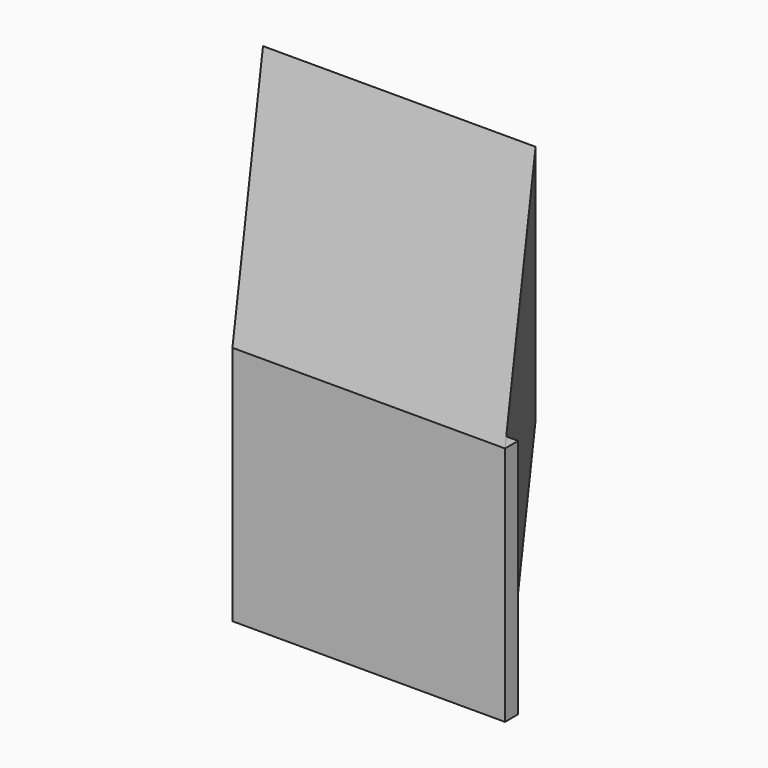
from build123d import *

# Parameters (mm, degrees)
F0_W      = 50.467223
F0_H      = 44.565819
F1_DEPTH  = 3.048
F1_FACE_W = 50.467222
F1_FACE_H = 44.56582


with BuildPart() as f1:
    # F0 (on Front) → F1 (new body)
    with BuildSketch(Plane.XZ):
        with Locations((-0.610485, 7.020649)):
            Rectangle(F0_W, F0_H)
        with Locations((-0.610485, 7.020649)):
            Rectangle(F0_W, F0_H)
    extrude(amount=F1_DEPTH)

    # F3: sweep along a path in F2
    with BuildLine(Plane.XY) as f3_path:
        Line((-55.554643, 76.514833), (0, 0))
    # F1_face (on face) → F3 (sweep)
    with BuildSketch(Plane(origin=(-0.610486, -3.048, 7.020649), x_dir=(1, 0, 0), z_dir=(0, -1, 0))):
        Rectangle(F1_FACE_W, F1_FACE_H)
    sweep(path=f3_path.line)


solid = f1.part
